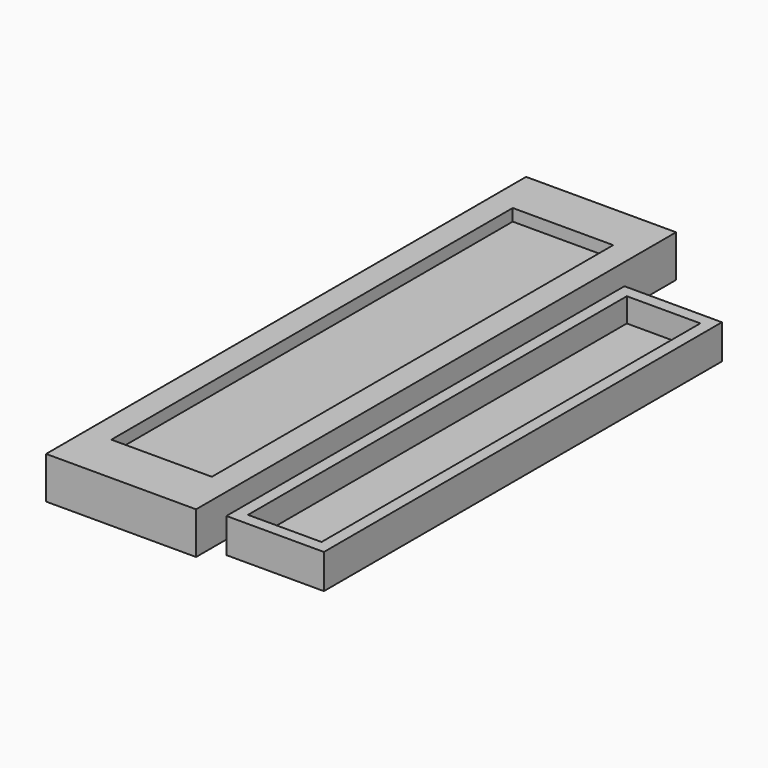
from build123d import *

# Parameters (mm, degrees)
F0_W     = 25
F0_H     = 100
F1_DEPTH = 7
F2_W     = 16.75
F2_H     = 83.62
F3_DEPTH = 2
F4_W     = 16.25
F4_H     = 82.92
F5_DEPTH = 1.75
F6_W     = 16.25
F6_H     = 82.92
F6_W_2   = 12.25
F6_H_2   = 78.92
F7_DEPTH = 4


with BuildPart() as f1:
    # F0 (on Top) → F1 (new body)
    with BuildSketch(Plane.XY):
        with Locations((12.5, 50)):
            Rectangle(F0_W, F0_H)
    extrude(amount=F1_DEPTH)

    # F2 (on face) → F3 (cut)
    with BuildSketch(Plane.XY.offset(7)):
        with Locations((12.5, 50.25)):
            Rectangle(F2_W, F2_H)
    extrude(amount=-F3_DEPTH, mode=Mode.SUBTRACT)


with BuildPart() as f5:
    # F4 (on Top) → F5 (new body)
    with BuildSketch(Plane.XY):
        with Locations((35.877641, 44.338047)):
            Rectangle(F4_W, F4_H)
    extrude(amount=F5_DEPTH)

    # F6 (on face) → F7 (join)
    with BuildSketch(Plane.XY.offset(1.75)):
        with Locations((35.877641, 44.338047)):
            Rectangle(F6_W, F6_H)
        with Locations((35.877641, 44.338047)):
            Rectangle(F6_W_2, F6_H_2, mode=Mode.SUBTRACT)
    extrude(amount=F7_DEPTH)


solid = Compound([f1.part, f5.part])
